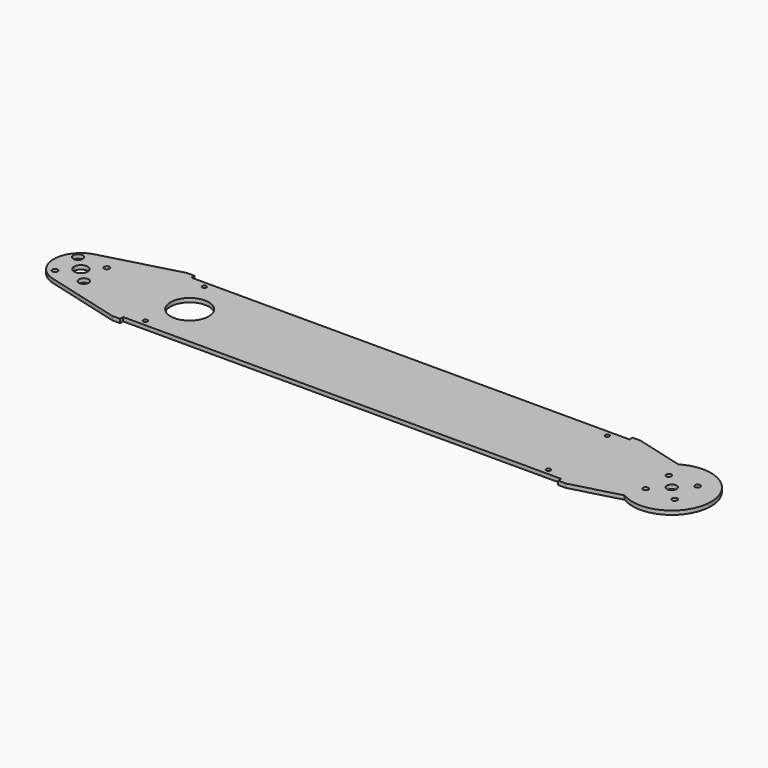
from build123d import *

# Parameters (mm, degrees)
F0_R     = 1.7272
F0_R_2   = 2.15265
F0_R_3   = 3.96875
F0_R_4   = 5.55625
F0_R_5   = 15.635513
F1_DEPTH = 3.175


with BuildPart() as f1:
    # F0 (on Top) → F1 (new body)
    with BuildSketch(Plane.XY):
        with BuildLine():
            Line((-426.540354, 38.03015), (-488.352253, 21.467701))
            ThreePointArc((-488.352253, 21.467701), (-504.825, 0), (-488.352253, -21.467701))
            Line((-488.352253, -21.467701), (-426.540354, -38.03015))
            Line((-426.540354, -38.03015), (-420.190354, -38.03015))
            Line((-420.190354, -38.03015), (-420.190354, -34.85515))
            Line((-420.190354, -34.85515), (-62.409646, -34.85515))
            Line((-62.409646, -34.85515), (-62.409646, -38.03015))
            Line((-62.409646, -38.03015), (-56.059646, -38.03015))
            Line((-56.059646, -38.03015), (-16.52552, -27.437013))
            ThreePointArc((-16.52552, -27.437013), (32.0294, 0), (-16.52552, 27.437013))
            Line((-16.52552, 27.437013), (-56.059646, 38.03015))
            Line((-56.059646, 38.03015), (-62.409646, 38.03015))
            Line((-62.409646, 38.03015), (-62.409646, 34.85515))
            Line((-62.409646, 34.85515), (-420.190354, 34.85515))
            Line((-420.190354, 34.85515), (-420.190354, 38.03015))
            Line((-420.190354, 38.03015), (-426.540354, 38.03015))
        make_face()
        with Locations((-405.902854, -30.09265)):
            Circle(F0_R, mode=Mode.SUBTRACT)
        with Locations((-494.386586, -11.786586)):
            Circle(F0_R_2, mode=Mode.SUBTRACT)
        with Locations((-470.813414, -11.786586)):
            Circle(F0_R_3, mode=Mode.SUBTRACT)
        with Locations((-76.697146, -30.09265)):
            Circle(F0_R, mode=Mode.SUBTRACT)
        with Locations((-11.786586, -11.786586)):
            Circle(F0_R_2, mode=Mode.SUBTRACT)
        with Locations((11.786586, -11.786586)):
            Circle(F0_R_2, mode=Mode.SUBTRACT)
        with Locations((-482.6, 0)):
            Circle(F0_R_4, mode=Mode.SUBTRACT)
        with Locations((-393.774688, 0)):
            Circle(F0_R_5, mode=Mode.SUBTRACT)
        with Locations((-494.386586, 11.786586)):
            Circle(F0_R_3, mode=Mode.SUBTRACT)
        with Locations((-470.813414, 11.786586)):
            Circle(F0_R_2, mode=Mode.SUBTRACT)
        with Locations((-405.902854, 30.09265)):
            Circle(F0_R, mode=Mode.SUBTRACT)
        Circle(F0_R_3, mode=Mode.SUBTRACT)
        with Locations((-11.786586, 11.786586)):
            Circle(F0_R_2, mode=Mode.SUBTRACT)
        with Locations((11.786586, 11.786586)):
            Circle(F0_R_2, mode=Mode.SUBTRACT)
        with Locations((-76.697146, 30.09265)):
            Circle(F0_R, mode=Mode.SUBTRACT)
    extrude(amount=F1_DEPTH)


solid = f1.part
